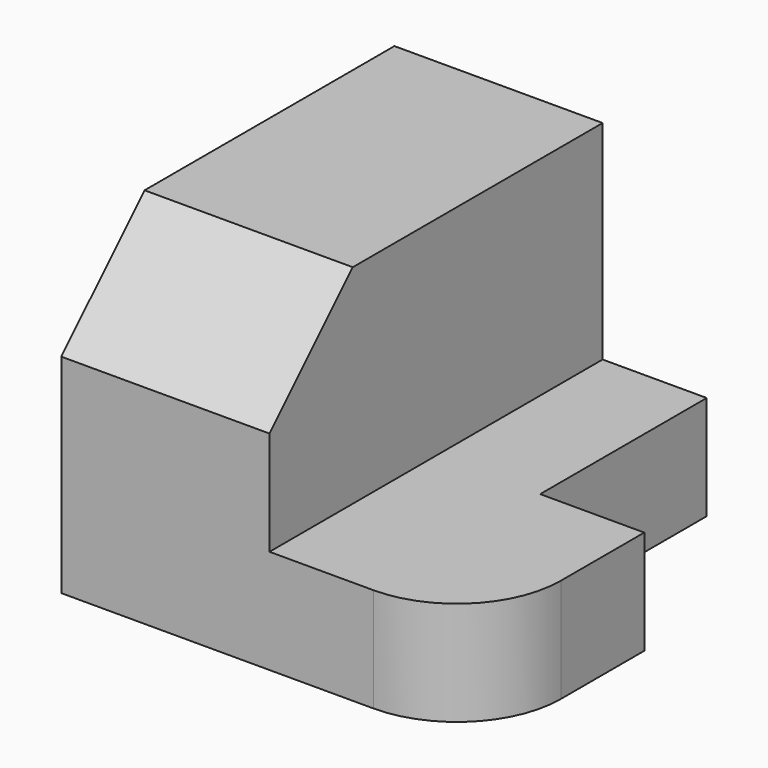
from build123d import *

# Parameters (mm, degrees)
PAD_DEPTH    = 10
SKETCH001_W  = 20
SKETCH001_H  = 40
PAD001_DEPTH = 20
CHAMFER_SIZE = 10


with BuildPart() as part:
    # Sketch → Pad (new body)
    with BuildSketch(Plane.XY):
        with BuildLine():
            Line((0, 40), (0, 0))
            Line((0, 0), (30, 0))
            ThreePointArc((30, 0), (37.071068, 2.928932), (40, 10))
            Line((40, 10), (40, 20))
            Line((40, 20), (30, 20))
            Line((30, 20), (30, 40))
            Line((30, 40), (0, 40))
        make_face()
    extrude(amount=PAD_DEPTH)

    # Sketch001 (on Face9 of Pad) → Pad001 (join)
    with BuildSketch(Plane.XY.offset(10)):
        with Locations((10, 20)):
            Rectangle(SKETCH001_W, SKETCH001_H)
    extrude(amount=PAD001_DEPTH)

    # Chamfer
    chamfer_edges = [part.edges().sort_by_distance(p)[0] for p in [
        (10, 0, 30),
    ]]
    chamfer(chamfer_edges, length=CHAMFER_SIZE)


solid = part.part
